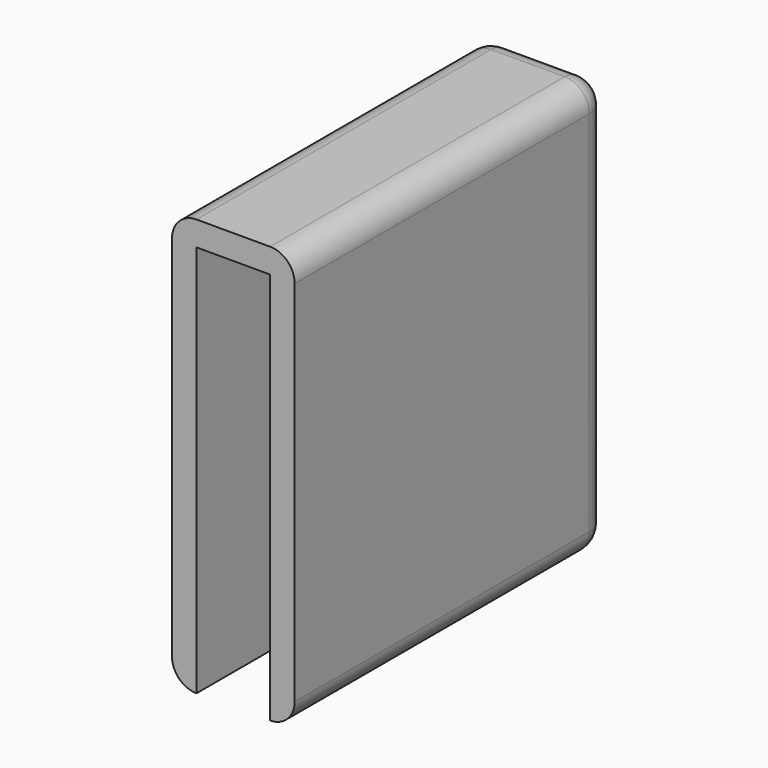
from build123d import *

# Parameters (mm, degrees)
SKETCH_W           = 3
SKETCH_H           = 15
PAD_DEPTH          = 15
THICKNESS_T        = 1
THICKNESS_FACE2_W  = 3
THICKNESS_FACE2_H  = 15
POCKET_DEPTH       = 5
POCKET_FACE4_W     = 15
POCKET_FACE4_H     = 3
POCKET001_DEPTH    = 5
POCKET001_FACE18_W = 3
POCKET001_FACE18_H = 1
POCKET002_DEPTH    = 5


with BuildPart() as part:
    # Sketch → Pad (new body)
    with BuildSketch(Plane.XY):
        with Locations((1.5, 7.5)):
            Rectangle(SKETCH_W, SKETCH_H)
    extrude(amount=PAD_DEPTH)

    # Thickness
    thickness_openings = [part.faces().sort_by_distance(p)[0] for p in [
        (1.5, 0, 7.5),
    ]]
    offset(amount=THICKNESS_T, openings=thickness_openings)

    # Thickness Face2 → Pocket (cut)
    with BuildSketch(Plane(origin=(1.5, 15, 7.5), x_dir=(-1, 0, 0), z_dir=(0, -1, 0))):
        Rectangle(THICKNESS_FACE2_W, THICKNESS_FACE2_H)
    extrude(amount=-POCKET_DEPTH, mode=Mode.SUBTRACT)

    # Pocket Face4 → Pocket001 (cut)
    with BuildSketch(Plane(origin=(1.5, 7.5, 0), x_dir=(0, 1, 0), z_dir=(0, 0, 1))):
        Rectangle(POCKET_FACE4_W, POCKET_FACE4_H)
    extrude(amount=-POCKET001_DEPTH, mode=Mode.SUBTRACT)

    # Pocket001 Face18 → Pocket002 (cut)
    with BuildSketch(Plane(origin=(1.5, 15, -0.5), x_dir=(-1, 0, 0), z_dir=(0, -1, 0))):
        Rectangle(POCKET001_FACE18_W, POCKET001_FACE18_H)
    extrude(amount=-POCKET002_DEPTH, mode=Mode.SUBTRACT)


solid = part.part
